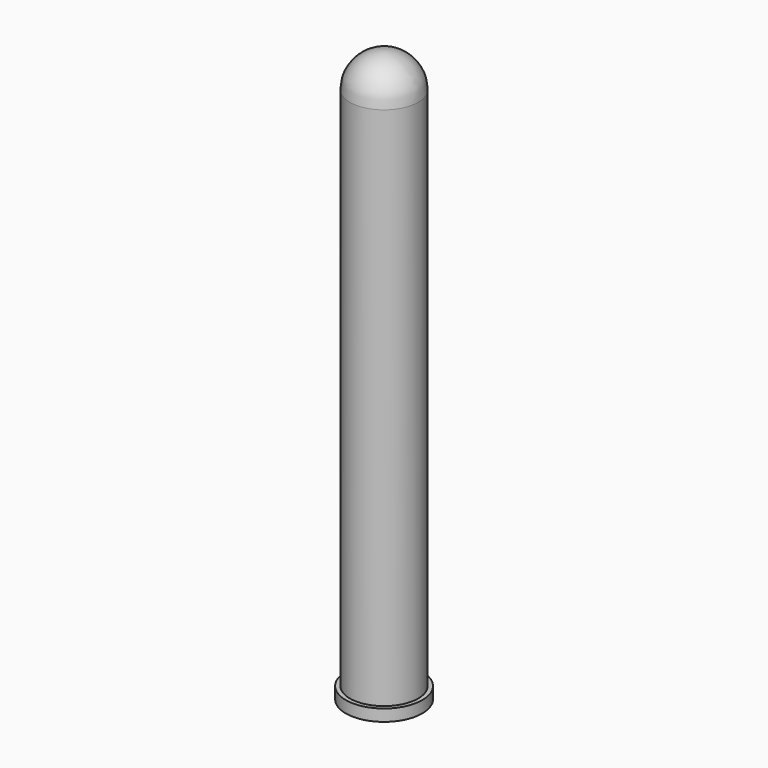
from build123d import *

# Parameters (mm, degrees)
F2_T     = -2
F5_R     = 32.5
F6_DEPTH = 10


with BuildPart() as f1:
    # F0 (on Front) → F1 (revolve)
    with BuildSketch(Plane.XZ):
        with BuildLine():
            Line((0, 475), (0, 0))
            Line((0, 0), (29, 0))
            Line((29, 0), (29, 446))
            ThreePointArc((29, 446), (20.506097, 466.506097), (0, 475))
        make_face()
    revolve(axis=Axis((0, 0, 237.5), (0, 0, 1)))

    # F2
    f2_openings = [f1.faces().sort_by_distance(p)[0] for p in [
        (0, 0, 0),
    ]]
    offset(amount=F2_T, openings=f2_openings)


with BuildPart() as f4:
    # F3 (on Front) → F4 (revolve)
    with BuildSketch(Plane.XZ):
        with BuildLine():
            Line((0, 470), (0, 0))
            Line((0, 0), (24, 0))
            Line((24, 0), (24, 446))
            ThreePointArc((24, 446), (16.970563, 462.970563), (0, 470))
        make_face()
    revolve(axis=Axis((0, 0, 235), (0, 0, 1)))


with BuildPart() as f6:
    # F5 (on face) → F6 (new body)
    with BuildSketch(Plane(origin=(0, 0, 0), x_dir=(1, 0, 0), z_dir=(0, 0, -1))):
        Circle(F5_R)
    extrude(amount=F6_DEPTH)


solid = Compound([f1.part, f4.part, f6.part])
